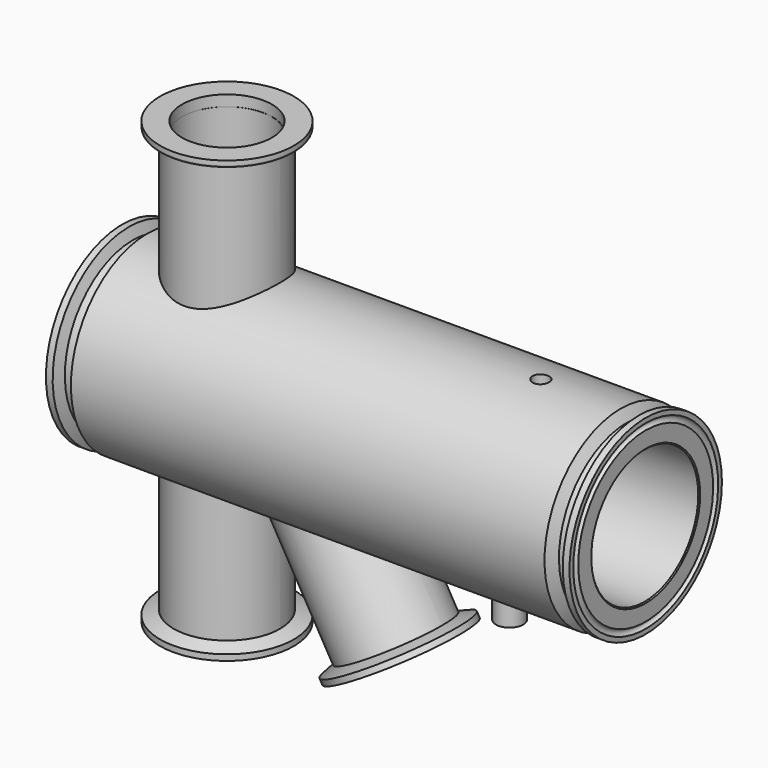
from build123d import *

# Parameters (mm, degrees)
F0_R           = 25.4
F0_R_2         = 21.5
F1_DEPTH       = 100
F2_R           = 45.5
F2_R_2         = 32
F3_DEPTH       = 200
F6_R           = 25.4
F6_R_2         = 21.5
F7_DEPTH       = 100
F17_R          = 45.5
F17_R_2        = 32
F18_DEPTH      = 50
F16_R          = 21.5
F20_DEPTH      = 150
F11_R          = 21.5
F21_DEPTH      = 202.66144
F22_R          = 1.5
F24_R          = 5
F25_DEPTH      = 51.25539
F27_R          = 25.4
F27_R_2        = 21.5
F28_DEPTH      = 85
F29_R          = 21.5
F30_DEPTH      = 150
F13_R          = 32
F31_DEPTH      = 250
F37_R          = 6.5
F37_R_2        = 5
F38_DEPTH      = 5
F38_DEPTH_BACK = 15
F39_R          = 4
F40_DEPTH      = 150.6813653321
F41_SIZE       = 0.5


with BuildPart() as f1:
    # F0 (on Top) → F1 (new body)
    with BuildSketch(Plane.XY):
        Circle(F0_R)
        Circle(F0_R_2, mode=Mode.SUBTRACT)
    extrude(amount=F1_DEPTH)

    # F2 (on Right) → F3 (join)
    with BuildSketch(Plane.YZ):
        Circle(F2_R)
        Circle(F2_R_2, mode=Mode.SUBTRACT)
    extrude(amount=F3_DEPTH)

    # F6 (on line) → F7 (join)
    with BuildSketch(Plane.XY):
        Circle(F6_R)
        Circle(F6_R_2, mode=Mode.SUBTRACT)
    extrude(amount=-F7_DEPTH)

    # F17 (on Right) → F18 (join)
    with BuildSketch(Plane.YZ):
        Circle(F17_R)
        Circle(F17_R_2, mode=Mode.SUBTRACT)
    extrude(amount=-F18_DEPTH)

    # F16 (on offset) → F20 (cut)
    with BuildSketch(Plane.XY.offset(-150)):
        Circle(F16_R)
    extrude(amount=F20_DEPTH, mode=Mode.SUBTRACT)

    # F11 (on offset) → F21 (cut)
    with BuildSketch(Plane.XY.offset(200)):
        Circle(F11_R)
    extrude(amount=-F21_DEPTH, mode=Mode.SUBTRACT)

    # F22 (on Front) → F23 (revolve, cut)
    with BuildSketch(Plane.XZ):
        Polygon((194.9736929554, 40.482262634), (196.8, 45.5), (188.0767009364, 45.5), (190.9736929554, 40.482262634), align=None)
        Polygon((-44.9736929554, 40.482262634), (-40.9736929554, 40.482262634), (-38.0767009364, 45.5), (-46.8, 45.5), align=None)
        with Locations((200, 41.75)):
            Circle(F22_R)
        with Locations((-50.0225760043, 41.75)):
            Circle(F22_R)
    revolve(axis=Axis((100, 0, 0), (1, 0, 0)), mode=Mode.SUBTRACT)

    # F24 (on Top) → F25 (cut)
    with BuildSketch(Plane.XY):
        with Locations((135, 0)):
            Circle(F24_R)
    extrude(amount=-F25_DEPTH, mode=Mode.SUBTRACT)

    # F27 (on offset) → F28 (join)
    with BuildSketch(Plane(origin=(15, 0, -25.9807621135), x_dir=(0.8660254038, 0, 0.5), z_dir=(-0.5, 0, 0.8660254038))):
        with Locations((26.6987298108, 0.0693558541)):
            Circle(F27_R)
        with Locations((26.6987298108, 0.0693558541)):
            Circle(F27_R_2, mode=Mode.SUBTRACT)
    extrude(amount=-F28_DEPTH)

    # F29 (on offset) → F30 (cut)
    with BuildSketch(Plane(origin=(90, 0, -155.8845726812), x_dir=(0.8660254038, 0, 0.5), z_dir=(-0.5, 0, 0.8660254038))):
        with Locations((26.6987298108, 0.0693558541)):
            Circle(F29_R)
    extrude(amount=F30_DEPTH, mode=Mode.SUBTRACT)

    # F13 (on offset) → F31 (cut)
    with BuildSketch(Plane.YZ.offset(200)):
        Circle(F13_R)
    extrude(amount=-F31_DEPTH, mode=Mode.SUBTRACT)

    # F32 (on Right) → F33 (revolve)
    with BuildSketch(Plane.YZ):
        with BuildLine():
            Line((-21.4306441459, 100), (-21.4306441459, 105.1803653321))
            Line((-21.4306441459, 105.1803653321), (-31.8706441459, 105.1803653321))
            Line((-31.8706441459, 105.1803653321), (-31.8706441459, 102.9405313627))
            ThreePointArc((-31.8706441459, 102.9405313627), (-31.7259657814, 102.4816702136), (-31.3442602606, 102.188777266))
            Line((-31.3442602606, 102.188777266), (-25.3306441459, 100))
            Line((-25.3306441459, 100), (-21.4306441459, 100))
        make_face()
        Polygon((-21.4306441459, -105.1803653321), (-21.4306441459, -100), (-25.3306441459, -100), (-31.8706441459, -102.3803653321), (-31.8706441459, -105.1803653321), align=None)
    revolve(axis=Axis((0, 0.0693558541, 50.1446694514), (0, 0, 1)))

    # F34 (on Front) → F35 (revolve)
    with BuildSketch(Plane.XZ):
        Polygon((109.4728123278, -72.3350133777), (102.618823521, -73.5435565298), (99.2413244463, -75.4935565298), (101.8315071123, -79.9798845083), (110.8728123278, -74.7598845083), align=None)
    revolve(axis=Axis((71.7843900419, 0, -70.9367511213), (-0.5, 0, 0.8660254038)))

    # F37 (on offset) → F38 (join, two sides)
    with BuildSketch(Plane.XY.offset(-45.5)) as f38_sk:
        with Locations((135, 0)):
            Circle(F37_R)
        with Locations((135, 0)):
            Circle(F37_R_2, mode=Mode.SUBTRACT)
    extrude(amount=F38_DEPTH)
    extrude(f38_sk.sketch, amount=-F38_DEPTH_BACK)

    # F39 (on offset) → F40 (cut, through all)
    with BuildSketch(Plane.XY.offset(-45.5)):
        with Locations((150, 0)):
            Circle(F39_R)
    extrude(amount=F40_DEPTH, mode=Mode.SUBTRACT)

    # F41
    f41_edges = [f1.edges().sort_by_distance(p)[0] for p in [
        (200, -32, 0),
    ]]
    chamfer(f41_edges, length=F41_SIZE)


solid = f1.part
